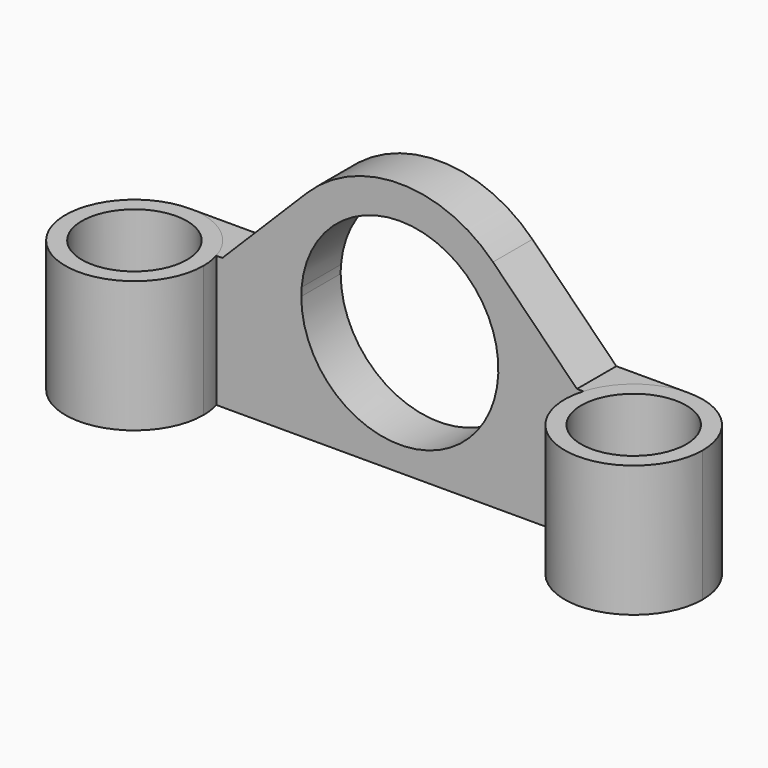
from build123d import *

# Parameters (mm, degrees)
F0_R     = 3.2
F1_DEPTH = 8
F2_DEPTH = 8
F4_DEPTH = 3
F5_DEPTH = 3


with BuildPart() as f1:
    # F0 (on Top) → F1 (new body)
    with BuildSketch(Plane.XY):
        with BuildLine():
            ThreePointArc((-11.175078, 1.2), (-12.69002, 3.367492), (-15.2, 4.2))
            ThreePointArc((-15.2, 4.2), (-18.169848, -2.969848), (-11, 0))
            ThreePointArc((-11, 0), (-11.044, 0.606352), (-11.175078, 1.2))
        make_face()
        with Locations((-15.2, 0)):
            Circle(F0_R, mode=Mode.SUBTRACT)
        with BuildLine():
            ThreePointArc((19.4, 0), (18.169848, 2.969848), (15.2, 4.2))
            ThreePointArc((15.2, 4.2), (12.69002, 3.367492), (11.175078, 1.2))
            ThreePointArc((11.175078, 1.2), (14.593648, -4.156), (19.4, 0))
        make_face()
        with Locations((15.2, 0)):
            Circle(F0_R, mode=Mode.SUBTRACT)
    extrude(amount=F1_DEPTH)


with BuildPart() as f2:
    # F0 (on Top) → F2 (new body)
    with BuildSketch(Plane.XY):
        with BuildLine():
            ThreePointArc((11.175078, 1.2), (12.69002, 3.367492), (15.2, 4.2))
            Line((15.2, 4.2), (-15.2, 4.2))
            ThreePointArc((-15.2, 4.2), (-12.69002, 3.367492), (-11.175078, 1.2))
            Line((-11.175078, 1.2), (11.175078, 1.2))
        make_face()
    extrude(amount=F2_DEPTH)

    # F3 (on face) → F4 (join)
    with BuildSketch(Plane(origin=(0, 4.2, 0), x_dir=(-1, 0, 0), z_dir=(0, 1, 0))):
        with BuildLine():
            ThreePointArc((-5.97913, 8), (0, 13.5), (5.97913, 8))
            Line((5.97913, 8), (10.805306, 8))
            Line((10.805306, 8), (5.661467, 13.152238))
            ThreePointArc((5.661467, 13.152238), (-0.008701, 15.499995), (-5.673748, 13.139909))
            Line((-5.673748, 13.139909), (-10.783003, 8))
            Line((-10.783003, 8), (-5.97913, 8))
        make_face()
    extrude(amount=-F4_DEPTH)

    # F3 (on face) → F5 (cut)
    with BuildSketch(Plane(origin=(0, 4.2, 0), x_dir=(-1, 0, 0), z_dir=(0, 1, 0))):
        with BuildLine():
            ThreePointArc((-5.97913, 8), (-0.250218, 1.50522), (6, 7.5))
            ThreePointArc((6, 7.5), (5.99478, 7.750218), (5.97913, 8))
            Line((5.97913, 8), (-5.97913, 8))
        make_face()
    extrude(amount=-F5_DEPTH, mode=Mode.SUBTRACT)


solid = Compound([f1.part, f2.part])
